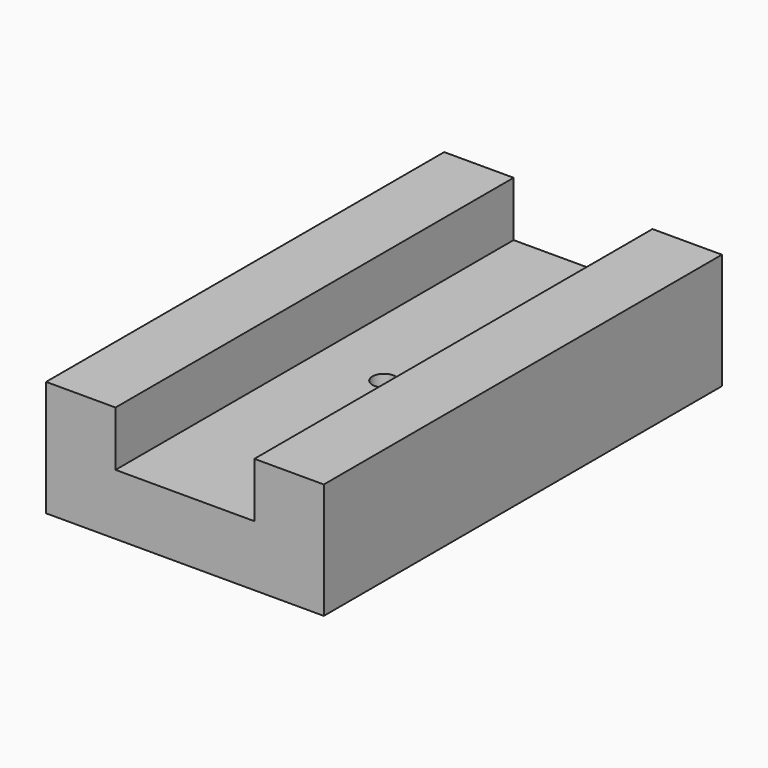
from build123d import *

# Parameters (mm, degrees)
F1_DEPTH = 136.525
F2_R     = 3.175
F3_DEPTH = 6.35
F5_R     = 9.525
F6_DEPTH = 12.7
F4_R     = 3.175
F7_DEPTH = 25.4


with BuildPart() as f1:
    # F0 (on Front) → F1 (new body)
    with BuildSketch(Plane.XZ):
        Polygon((-48.16837, -10.484883), (-48.16837, -42.234883), (28.03163, -42.234883), (28.03163, -10.484883), (8.98163, -10.484883), (8.98163, -25.545781), (-29.11837, -25.545781), (-29.11837, -10.484883), align=None)
    extrude(amount=F1_DEPTH)

    # F2 (on face) → F3 (join)
    with BuildSketch(Plane.XY.offset(-25.545781)):
        with Locations((-10.06837, -68.2625)):
            Circle(F2_R)
    extrude(amount=-F3_DEPTH)

    # F5 (on face) → F6 (cut)
    with BuildSketch(Plane(origin=(0, 0, -42.234883), x_dir=(1, 0, 0), z_dir=(0, 0, -1))):
        with Locations((-10.06837, 68.2625)):
            Circle(F5_R)
    extrude(amount=-F6_DEPTH, mode=Mode.SUBTRACT)

    # F4 (on face) → F7 (cut)
    with BuildSketch(Plane.XY.offset(-25.545781)):
        with Locations((-10.06837, -68.2625)):
            Circle(F4_R)
    extrude(amount=-F7_DEPTH, mode=Mode.SUBTRACT)


solid = f1.part
